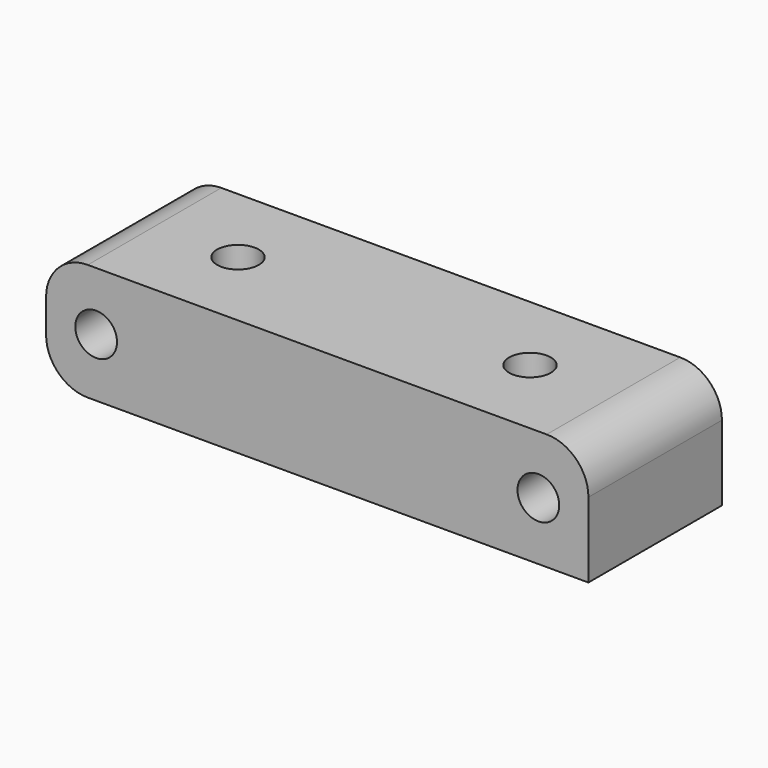
from build123d import *

# Parameters (mm, degrees)
F0_W     = 20
F0_H     = 14
F1_DEPTH = 32.5
F3_D     = 5
F5_D     = 5
F6_R     = 5


with BuildPart() as f1:
    # F0 (on Right) → F1 (new body, symmetric)
    with BuildSketch(Plane.YZ):
        Rectangle(F0_W, F0_H)
    extrude(amount=F1_DEPTH, both=True)

    # F3 (through all)
    with Locations(Plane.XZ.offset(10)):
        with Locations((-26.5, 0), (26.5, 0)):
            Hole(F3_D / 2)

    # F5 (through all)
    with Locations(Plane.XY.offset(7)):
        with Locations((-17.5, 0), (17.5, 0)):
            Hole(F5_D / 2)

    # F6
    f6_edges = [f1.edges().sort_by_distance(p)[0] for p in [
        (32.5, 0, 7),
        (-32.5, 0, -7),
        (-32.5, 0, 7),
    ]]
    fillet(f6_edges, radius=F6_R)


solid = f1.part
